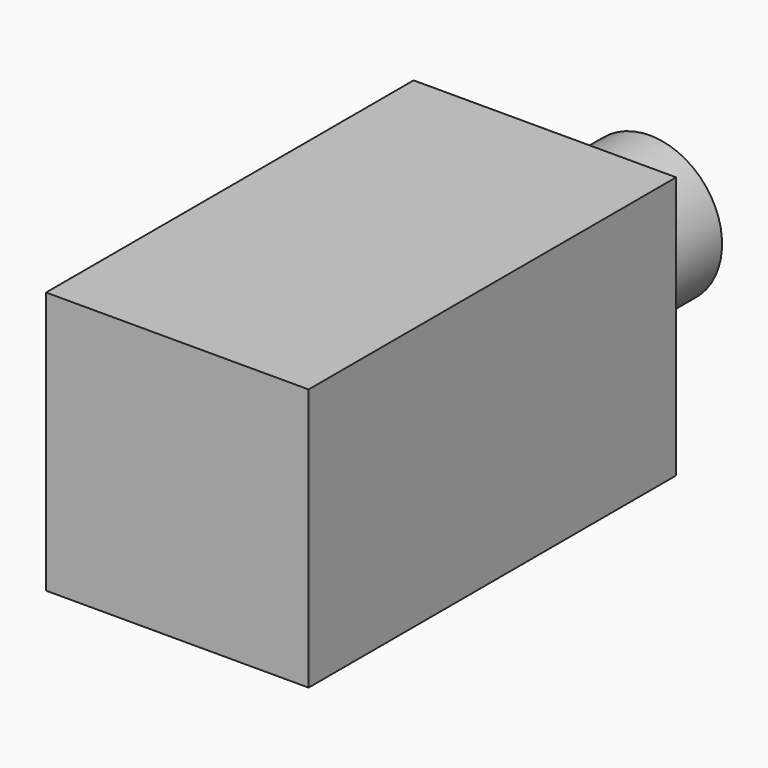
from build123d import *

# Parameters (mm, degrees)
F0_W     = 16
F0_H     = 16
F1_DEPTH = 28
F2_R     = 4.4
F3_DEPTH = 8


with BuildPart() as f1:
    # F0 (on Front) → F1 (new body)
    with BuildSketch(Plane.XZ):
        with Locations((8, 8)):
            Rectangle(F0_W, F0_H)
    extrude(amount=F1_DEPTH)

    # F2 (on face) → F3 (join)
    with BuildSketch(Plane(origin=(0, 0, 0), x_dir=(-1, 0, 0), z_dir=(0, 1, 0))):
        with Locations((-8, 8)):
            Circle(F2_R)
    extrude(amount=F3_DEPTH)


solid = f1.part
